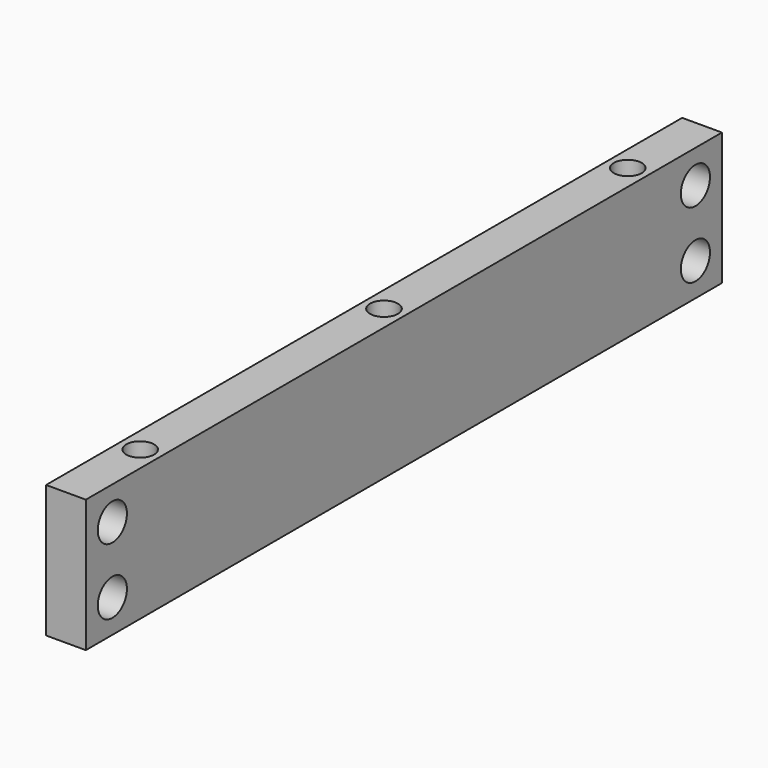
from build123d import *

# Parameters (mm, degrees)
F0_W     = 6
F0_H     = 120
F1_DEPTH = 20
F2_R     = 2.1
F3_DEPTH = 20
F4_R     = 2.75
F5_DEPTH = 25


with BuildPart() as f1:
    # F0 (on Top) → F1 (new body)
    with BuildSketch(Plane.XY):
        with Locations((3, -60)):
            Rectangle(F0_W, F0_H)
    extrude(amount=F1_DEPTH)

    # F2 (on face) → F3 (cut)
    with BuildSketch(Plane.XY.offset(20)):
        with Locations((3, -14)):
            Circle(F2_R)
        with Locations((3, -106)):
            Circle(F2_R)
        with Locations((3, -60)):
            Circle(F2_R)
    extrude(amount=-F3_DEPTH, mode=Mode.SUBTRACT)

    # F4 (on face) → F5 (cut)
    with BuildSketch(Plane.YZ.offset(6)):
        with Locations((-115, 15)):
            Circle(F4_R)
        with Locations((-115, 5)):
            Circle(F4_R)
        with Locations((-5, 5)):
            Circle(F4_R)
        with Locations((-5, 15)):
            Circle(F4_R)
    extrude(amount=-F5_DEPTH, mode=Mode.SUBTRACT)


solid = f1.part
